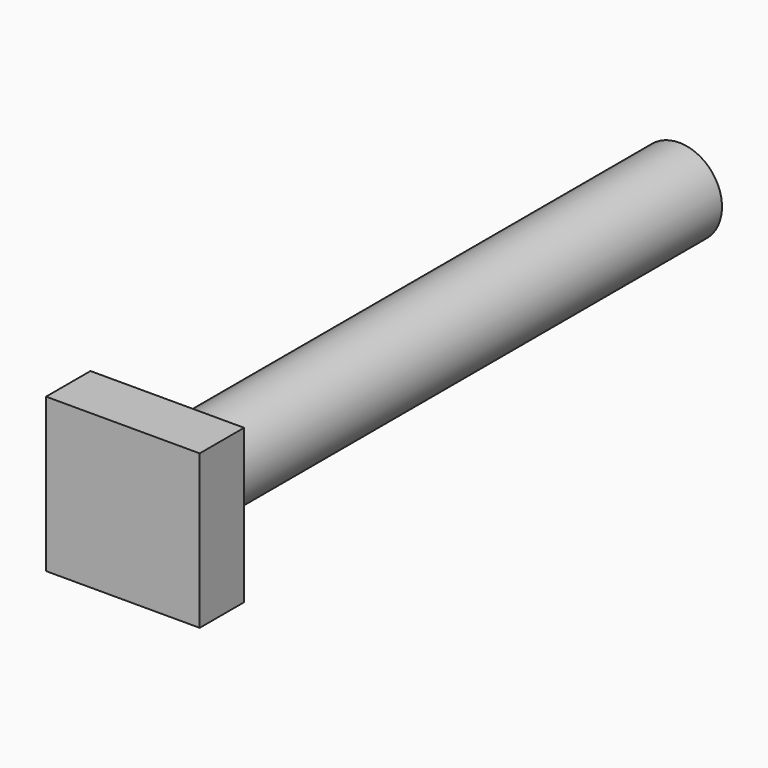
from build123d import *

# Parameters (mm, degrees)
F0_W     = 18
F0_H     = 18
F1_DEPTH = 6.5
F2_R     = 5
F3_DEPTH = 75


with BuildPart() as f1:
    # F0 (on Front) → F1 (new body)
    with BuildSketch(Plane.XZ):
        Rectangle(F0_W, F0_H)
    extrude(amount=F1_DEPTH)

    # F2 (on face) → F3 (join)
    with BuildSketch(Plane(origin=(0, 0, 0), x_dir=(-1, 0, 0), z_dir=(0, 1, 0))):
        Circle(F2_R)
    extrude(amount=F3_DEPTH)


solid = f1.part
